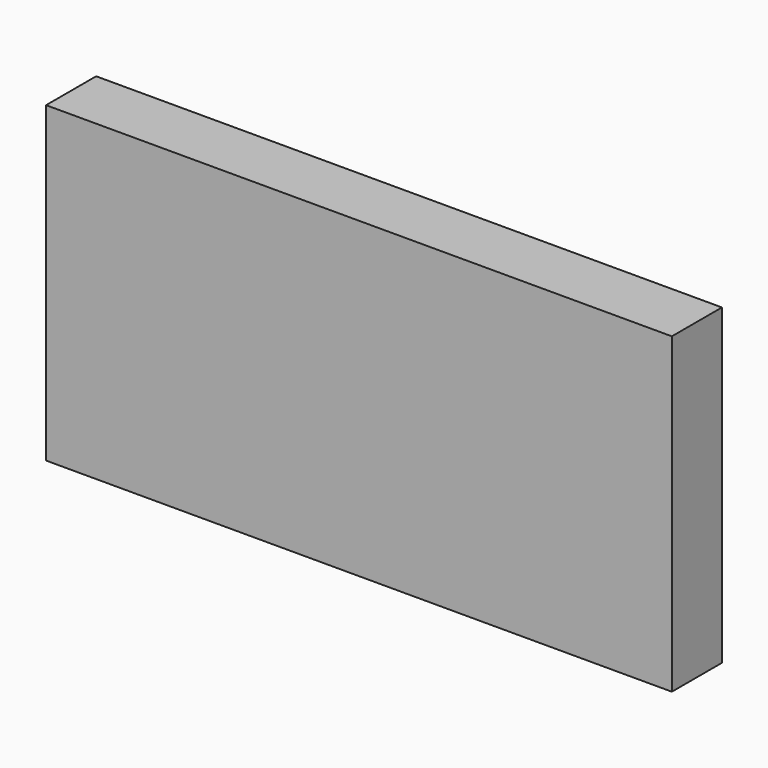
from build123d import *

# Parameters (mm, degrees)
SKETCH_W      = 100
SKETCH_H      = 10
EXTRUDE_DEPTH = 50


with BuildPart() as part:
    # Sketch → Extrude (new body)
    with BuildSketch(Plane.XY):
        Rectangle(SKETCH_W, SKETCH_H)
    extrude(amount=EXTRUDE_DEPTH)


solid = part.part
